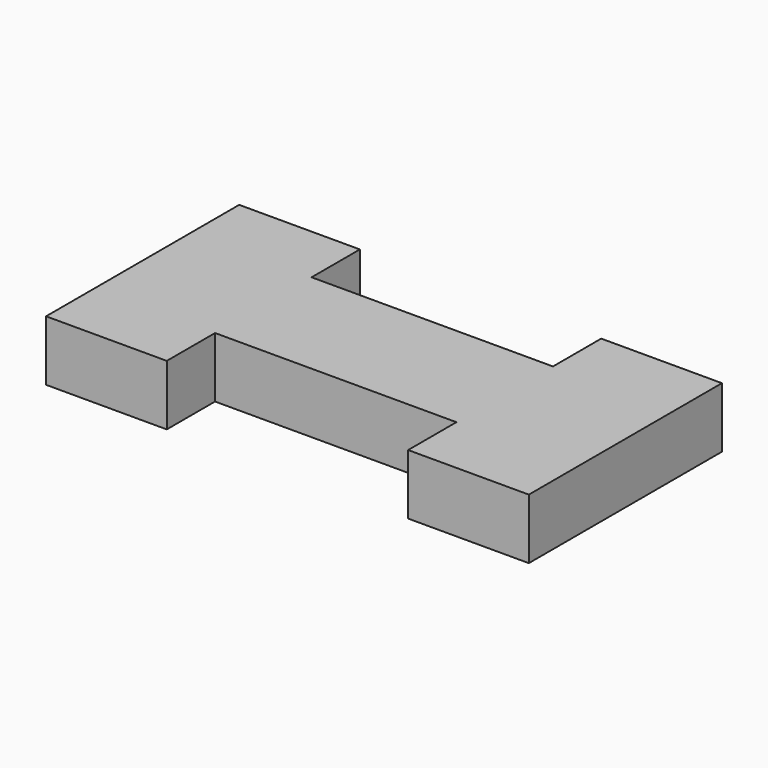
from build123d import *

# Parameters (mm, degrees)
F0_W     = 12.7
F0_H     = 6.35
F1_DEPTH = 6.35


with BuildPart() as f1:
    # F0 (on Top) → F1 (new body)
    with BuildSketch(Plane.XY):
        Polygon((-12.7, 0), (0, 0), (0, 12.7), (-12.7, 12.7), (-38.1, 12.7), (-50.8, 12.7), (-50.8, 0), (-38.1, 0), align=None)
        with Locations((-44.45, 15.875)):
            Rectangle(F0_W, F0_H)
        with Locations((-6.35, 15.875)):
            Rectangle(F0_W, F0_H)
        with Locations((-6.35, -3.175)):
            Rectangle(F0_W, F0_H)
        with Locations((-44.45, -3.175)):
            Rectangle(F0_W, F0_H)
    extrude(amount=F1_DEPTH)


solid = f1.part
